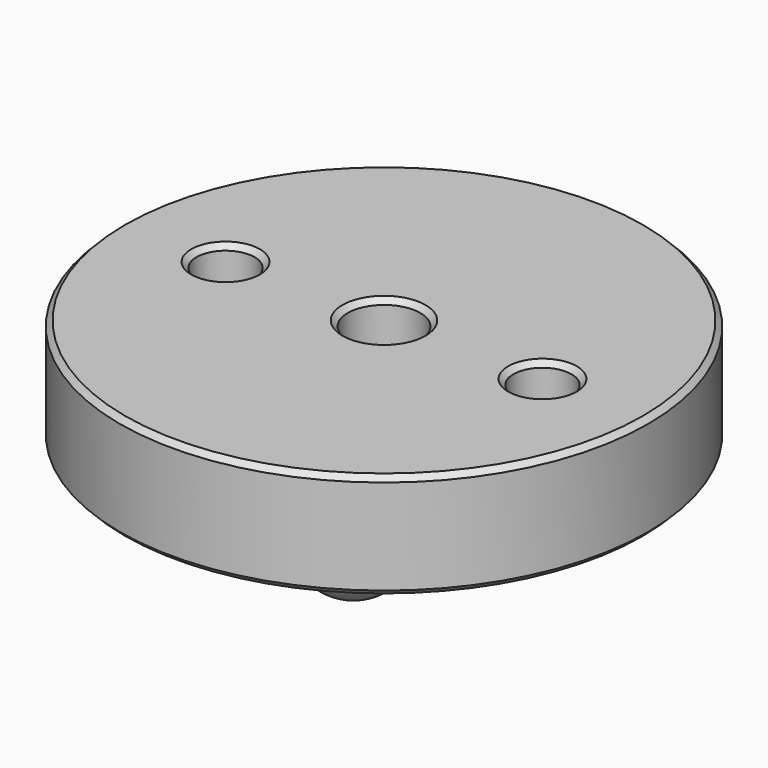
from build123d import *

# Parameters (mm, degrees)
CYLINDER005_R     = 20
CYLINDER005_DEPTH = 8
SKETCH006_R       = 2.2
SKETCH006_R_2     = 2.75
POCKET004_DEPTH   = 12.001
POCKET005_DEPTH   = 4
CHAMFER005_SIZE   = 0.4


with BuildPart() as part:
    # Cylinder005 → Cylinder005 (join)
    with BuildSketch(Plane.XY):
        Circle(CYLINDER005_R)
    extrude(amount=CYLINDER005_DEPTH)

    # Sphere → Sphere (revolve)
    with BuildSketch(Plane(origin=(6, 10.392305, 0), x_dir=(1, 0, 0), z_dir=(0, -1, 0))):
        with BuildLine():
            ThreePointArc((0, -4), (2.828427, -2.828427), (4, 0))
            Line((4, 0), (0, 0))
            Line((0, 0), (0, -4))
        make_face()
    revolve(axis=Axis((6, 10.392305, 0), (0, 0, 1)))

    # Sphere001 → Sphere001 (revolve)
    with BuildSketch(Plane(origin=(6, -10.392305, 0), x_dir=(1, 0, 0), z_dir=(0, -1, 0))):
        with BuildLine():
            ThreePointArc((0, -4), (2.828427, -2.828427), (4, 0))
            Line((4, 0), (0, 0))
            Line((0, 0), (0, -4))
        make_face()
    revolve(axis=Axis((6, -10.392305, 0), (0, 0, 1)))

    # Sketch006 (on DatumPlane) → Pocket004 (cut, through all)
    with BuildSketch(Plane.XY.offset(8)):
        with Locations((-12, 0)):
            Circle(SKETCH006_R)
        with Locations((12, 0)):
            Circle(SKETCH006_R)
        Circle(SKETCH006_R_2)
    extrude(amount=-POCKET004_DEPTH, mode=Mode.SUBTRACT)

    # Sketch063 (on DatumPlane) → Pocket005 (cut)
    with BuildSketch(Plane.XY):
        Polygon((-17.091169, 0), (-12, -5.091169), (-6.908831, 0), (-12, 5.091169), align=None)
        Polygon((17.091169, 0), (12, 5.091169), (6.908831, 0), (12, -5.091169), align=None)
    extrude(amount=POCKET005_DEPTH, mode=Mode.SUBTRACT)

    # Chamfer005
    chamfer005_edges = [part.edges().sort_by_distance(p)[0] for p in [
        (-20, 0, 8),
        (-14.2, 0, 8),
        (-2.75, 0, 8),
        (9.8, 0, 8),
        (-20, 0, 0),
        (-2.75, 0, 0),
        (9.454416, 2.545584, 0),
        (9.454416, -2.545584, 0),
        (14.545584, -2.545584, 0),
        (14.545584, 2.545584, 0),
        (-9.454416, 2.545584, 0),
        (-14.545584, 2.545584, 0),
        (-14.545584, -2.545584, 0),
        (-9.454416, -2.545584, 0),
    ]]
    chamfer(chamfer005_edges, length=CHAMFER005_SIZE)


with BuildPart() as part_1:
    # Body022003 placement: moved
    add(part.part.moved(Location((-3.125, 0, 888))))


solid = part_1.part
